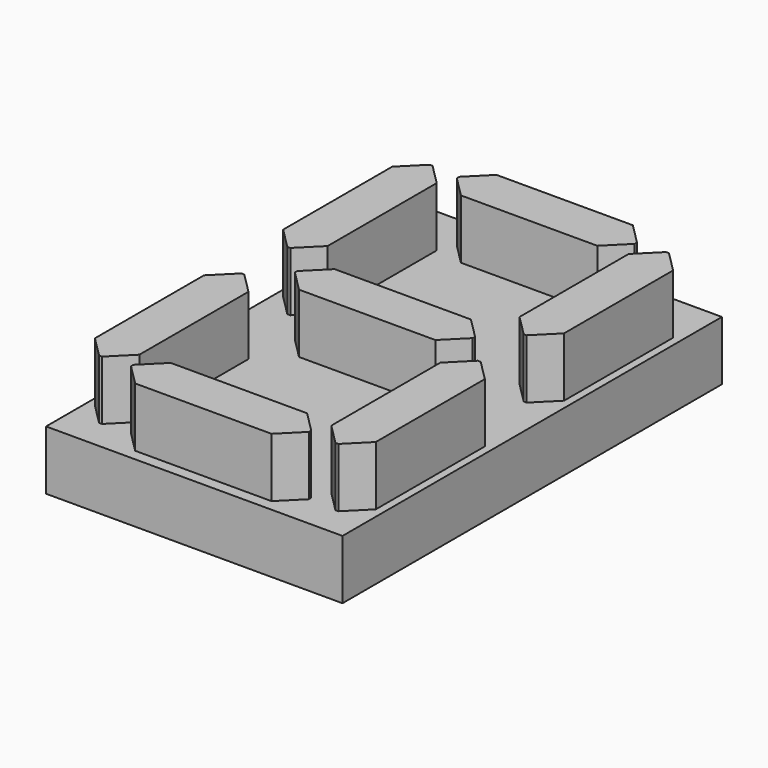
from build123d import *

# Parameters (mm, degrees)
F0_W     = 10
F0_H     = 16
F1_DEPTH = 2
F2_W     = 1.5
F2_H     = 6
F2_W_2   = 6
F2_H_2   = 1.5
F3_DEPTH = 2
F4_SIZE  = 0.7


with BuildPart() as f1:
    # F0 (on Top) → F1 (new body)
    with BuildSketch(Plane.XY):
        Rectangle(F0_W, F0_H)
    extrude(amount=-F1_DEPTH)

    # F2 (on face) → F3 (join)
    with BuildSketch(Plane.XY):
        with Locations((-3.987426, 3.969108)):
            Rectangle(F2_W, F2_H)
        with Locations((0, 6.868761)):
            Rectangle(F2_W_2, F2_H_2)
        with Locations((3.987426, 3.969108)):
            Rectangle(F2_W, F2_H)
        with Locations((0.028471, 0.005555)):
            Rectangle(F2_W_2, F2_H_2)
        with Locations((-3.987426, -3.969108)):
            Rectangle(F2_W, F2_H)
        with Locations((0, -6.868761)):
            Rectangle(F2_W_2, F2_H_2)
        with Locations((3.987426, -3.969108)):
            Rectangle(F2_W, F2_H)
    extrude(amount=F3_DEPTH)

    # F4
    f4_edges = [f1.edges().sort_by_distance(p)[0] for p in [
        (3, 6.118761, 1),
        (3.237426, 6.969108, 1),
        (3.237426, 0.969108, 1),
        (4.737426, 0.969108, 1),
        (3.237426, -0.969108, 1),
        (3.028471, -0.744445, 1),
        (-2.971529, -0.744445, 1),
        (-2.971529, 0.755555, 1),
        (-3.237426, 0.969108, 1),
        (-4.737426, 0.969108, 1),
        (-4.737426, 6.969108, 1),
        (-3, 6.118761, 1),
        (-3, 7.618761, 1),
        (3.237426, -6.969108, 1),
        (4.737426, -6.969108, 1),
        (3, -7.618761, 1),
        (-3, -7.618761, 1),
        (-3.237426, -6.969108, 1),
        (-4.737426, -6.969108, 1),
        (-3, -6.118761, 1),
        (-4.737426, -0.969108, 1),
        (-3.237426, -0.969108, 1),
        (3.028471, 0.755555, 1),
        (4.737426, -0.969108, 1),
        (3, -6.118761, 1),
        (4.737426, 6.969108, 1),
        (3, 7.618761, 1),
        (-3.237426, 6.969108, 1),
    ]]
    chamfer(f4_edges, length=F4_SIZE)


solid = f1.part
